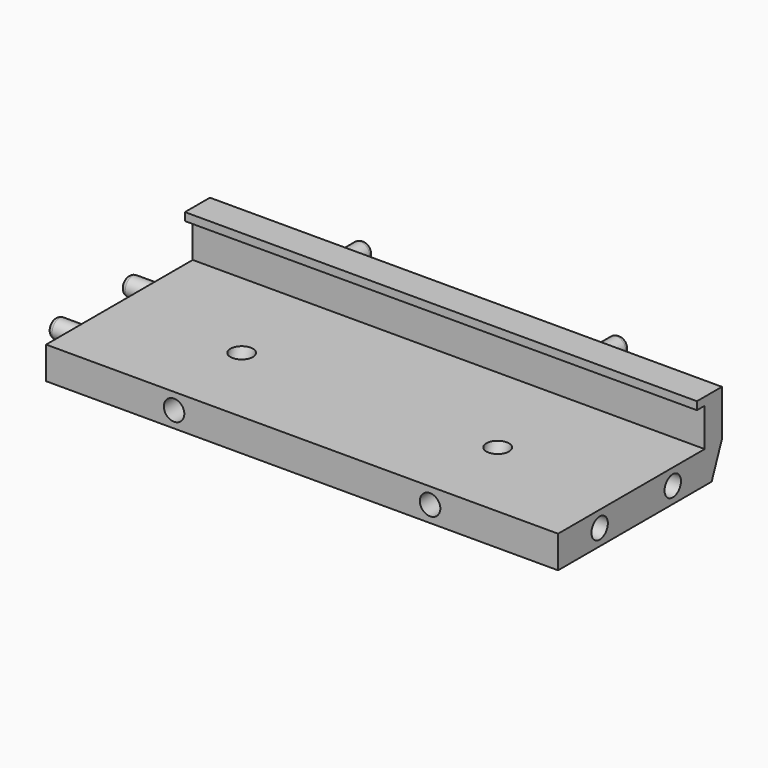
from build123d import *

# Parameters (mm, degrees)
F0_R      = 2
F1_DEPTH  = 100
F6_R      = 2
F6_R_2    = 1.8
F7_DEPTH  = 91.55
F8_DEPTH  = 6.5
F9_R      = 1
F10_R     = 1
F2_R      = 2.2
F13_R     = 2
F14_DEPTH = 8.5
F15_R     = 1.8
F16_DEPTH = 6.5
F17_R     = 1
F18_R     = 1


with BuildPart() as f1:
    # F0 (on Right) → F1 (new body)
    with BuildSketch(Plane.YZ):
        Polygon((37.5, 0), (40, 6.3), (40, 15.3), (33.9, 15.3), (33.9, 13.75), (35.8, 13.75), (35.8, 6.3), (0, 6.3), (0, 0), align=None)
        with Locations((10.15, 3.15)):
            Circle(F0_R, mode=Mode.SUBTRACT)
        with Locations((28, 3.15)):
            Circle(F0_R, mode=Mode.SUBTRACT)
    extrude(amount=F1_DEPTH)

    # F6 (on face) → F7 (join)
    with BuildSketch(Plane(origin=(0, 0, 0), x_dir=(0, -1, 0), z_dir=(-1, 0, 0))):
        with Locations((-28, 3.15)):
            Circle(F6_R)
        with Locations((-28, 3.15)):
            Circle(F6_R_2, mode=Mode.SUBTRACT)
        with Locations((-10.15, 3.15)):
            Circle(F6_R)
        with Locations((-10.15, 3.15)):
            Circle(F6_R_2, mode=Mode.SUBTRACT)
        with Locations((-28, 3.15)):
            Circle(F6_R_2)
        with Locations((-10.15, 3.15)):
            Circle(F6_R_2)
    extrude(amount=-F7_DEPTH)

    # F6 (on face) → F8 (join)
    with BuildSketch(Plane(origin=(0, 0, 0), x_dir=(0, -1, 0), z_dir=(-1, 0, 0))):
        with Locations((-28, 3.15)):
            Circle(F6_R_2)
        with Locations((-10.15, 3.15)):
            Circle(F6_R_2)
    extrude(amount=F8_DEPTH)

    # F9
    f9_edges = [f1.edges().sort_by_distance(p)[0] for p in [
        (-6.5, 29.8, 3.15),
    ]]
    fillet(f9_edges, radius=F9_R)

    # F10
    f10_edges = [f1.edges().sort_by_distance(p)[0] for p in [
        (-6.5, 11.95, 3.15),
    ]]
    fillet(f10_edges, radius=F10_R)

    # F11: sweep along a path in F5
    with BuildLine(Plane(origin=(0, 10.3674357858, -4.1140618198), x_dir=(-1, 0, 0), z_dir=(0, 0.9294907112, -0.3688455203))) as f11_path:
        Line((-74.083484861, 4.4261462437), (-74.083484861, -4.2147375643))
    # F2 (on face) → F11 (sweep, cut)
    with BuildSketch(Plane.XY.offset(6.3)):
        with Locations((25, 16.5)):
            Circle(F2_R)
    sweep(path=f11_path.line, mode=Mode.SUBTRACT)

    # F12: sweep along a path in F5
    with BuildLine(Plane(origin=(0, 10.3674357858, -4.1140618198), x_dir=(-1, 0, 0), z_dir=(0, 0.9294907112, -0.3688455203))) as f12_path:
        Line((-24.083484861, 11.2040515248), (-24.083484861, -2.310390817))
    # F2 (on face) → F12 (sweep, cut)
    with BuildSketch(Plane.XY.offset(6.3)):
        with Locations((75, 16.5)):
            Circle(F2_R)
    sweep(path=f12_path.line, mode=Mode.SUBTRACT)

    # F13 (on face) → F14 (cut)
    with BuildSketch(Plane.XZ):
        with Locations((25, 3.15)):
            Circle(F13_R)
        with Locations((75, 3.15)):
            Circle(F13_R)
    extrude(amount=-F14_DEPTH, mode=Mode.SUBTRACT)

    # F15 (on face) → F16 (join)
    with BuildSketch(Plane(origin=(0, 40, 0), x_dir=(-1, 0, 0), z_dir=(0, 1, 0))):
        with Locations((-75, 11.8)):
            Circle(F15_R)
        with Locations((-25, 11.8)):
            Circle(F15_R)
    extrude(amount=F16_DEPTH)

    # F17
    f17_edges = [f1.edges().sort_by_distance(p)[0] for p in [
        (76.8, 46.5, 11.8),
    ]]
    fillet(f17_edges, radius=F17_R)

    # F18
    f18_edges = [f1.edges().sort_by_distance(p)[0] for p in [
        (26.8, 46.5, 11.8),
    ]]
    fillet(f18_edges, radius=F18_R)


solid = f1.part
